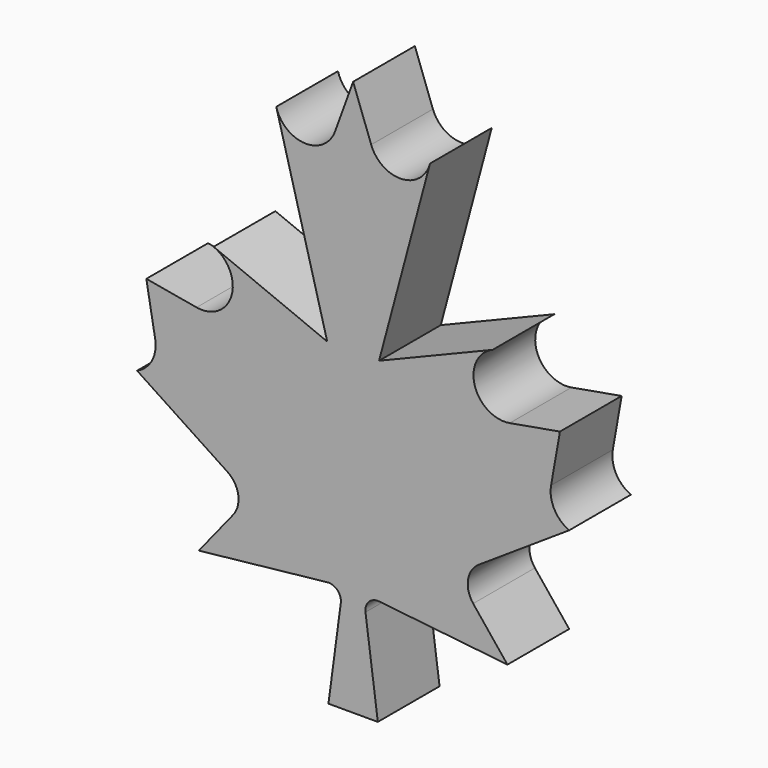
from build123d import *

# Parameters (mm, degrees)
F1_DEPTH = 25


with BuildPart() as f1:
    # F0 (on Front) → F1 (new body)
    with BuildSketch(Plane.XZ):
        with BuildLine():
            Line((4, 30), (0, 0))
            Line((0, 0), (16, 0))
            Line((16, 0), (12, 30))
            ThreePointArc((12, 30), (13.101797, 33.321964), (16.39556, 34.505405))
            Line((16.39556, 34.505405), (58, 30))
            Line((58, 30), (46.895875, 43.801154))
            ThreePointArc((46.895875, 43.801154), (45.224745, 50.050887), (48.722404, 55.493149))
            Line((48.722404, 55.493149), (78, 74.814698))
            ThreePointArc((78, 74.814698), (73.172757, 79.252073), (72.131917, 85.725807))
            Line((72.131917, 85.725807), (75.002716, 102))
            Line((75.002716, 102), (58.728522, 99.129201))
            ThreePointArc((58.728522, 99.129201), (47.385802, 106.196158), (53.198466, 118.229948))
            Line((53.198466, 118.229948), (16.39556, 103.143887))
            Line((16.39556, 103.143887), (32.905704, 164.760587))
            ThreePointArc((32.905704, 164.760587), (23.68264, 157.358295), (13.84952, 163.928576))
            Line((13.84952, 163.928576), (8, 180))
            Line((8, 180), (2.15048, 163.928576))
            ThreePointArc((2.15048, 163.928576), (-7.68264, 157.358295), (-16.905704, 164.760587))
            Line((-16.905704, 164.760587), (-0.39556, 103.143887))
            Line((-0.39556, 103.143887), (-37.198466, 118.229948))
            ThreePointArc((-37.198466, 118.229948), (-31.385802, 106.196158), (-42.728522, 99.129201))
            Line((-42.728522, 99.129201), (-59.002716, 102))
            Line((-59.002716, 102), (-56.131917, 85.725807))
            ThreePointArc((-56.131917, 85.725807), (-57.172757, 79.252073), (-62, 74.814698))
            Line((-62, 74.814698), (-32.722404, 55.493149))
            ThreePointArc((-32.722404, 55.493149), (-29.224745, 50.050887), (-30.895875, 43.801154))
            Line((-30.895875, 43.801154), (-42, 30))
            Line((-42, 30), (-0.39556, 34.505405))
            ThreePointArc((-0.39556, 34.505405), (2.898203, 33.321964), (4, 30))
        make_face()
    extrude(amount=F1_DEPTH)


solid = f1.part
